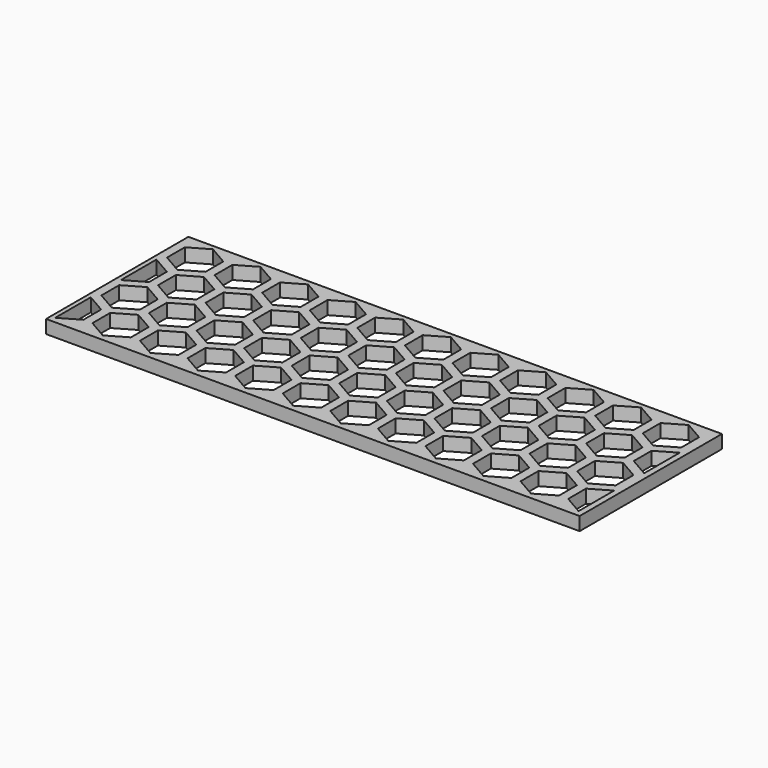
from build123d import *

# Parameters (mm, degrees)
F0_W     = 120
F0_H     = 40
F1_DEPTH = 3


with BuildPart() as f1:
    # F0 (on Top) → F1 (new body)
    with BuildSketch(Plane.XY):
        Rectangle(F0_W, F0_H)
        Polygon((-54.689746, -11.161731), (-54.689746, -16.161731), (-59.019873, -18.661731), (-59.019873, -8.661731), align=None, mode=Mode.SUBTRACT)
        Polygon((-48.319873, -8.661731), (-43.989746, -11.161731), (-43.989746, -16.161731), (-48.319873, -18.661731), (-52.65, -16.161731), (-52.65, -11.161731), align=None, mode=Mode.SUBTRACT)
        Polygon((-37.619873, -8.661731), (-33.289746, -11.161731), (-33.289746, -16.161731), (-37.619873, -18.661731), (-41.95, -16.161731), (-41.95, -11.161731), align=None, mode=Mode.SUBTRACT)
        Polygon((-26.919873, -8.661731), (-22.589746, -11.161731), (-22.589746, -16.161731), (-26.919873, -18.661731), (-31.25, -16.161731), (-31.25, -11.161731), align=None, mode=Mode.SUBTRACT)
        Polygon((-16.219873, -8.661731), (-11.889746, -11.161731), (-11.889746, -16.161731), (-16.219873, -18.661731), (-20.55, -16.161731), (-20.55, -11.161731), align=None, mode=Mode.SUBTRACT)
        Polygon((-5.519873, -8.661731), (-1.189746, -11.161731), (-1.189746, -16.161731), (-5.519873, -18.661731), (-9.85, -16.161731), (-9.85, -11.161731), align=None, mode=Mode.SUBTRACT)
        Polygon((-49.339746, -1.941154), (-49.339746, -6.941154), (-53.669873, -9.441154), (-58, -6.941154), (-58, -1.941154), (-53.669873, 0.558846), align=None, mode=Mode.SUBTRACT)
        Polygon((-42.969873, 0.558846), (-38.639746, -1.941154), (-38.639746, -6.941154), (-42.969873, -9.441154), (-47.3, -6.941154), (-47.3, -1.941154), align=None, mode=Mode.SUBTRACT)
        Polygon((-32.269873, 0.558846), (-27.939746, -1.941154), (-27.939746, -6.941154), (-32.269873, -9.441154), (-36.6, -6.941154), (-36.6, -1.941154), align=None, mode=Mode.SUBTRACT)
        Polygon((-21.569873, 0.558846), (-17.239746, -1.941154), (-17.239746, -6.941154), (-21.569873, -9.441154), (-25.9, -6.941154), (-25.9, -1.941154), align=None, mode=Mode.SUBTRACT)
        Polygon((-10.869873, 0.558846), (-6.539746, -1.941154), (-6.539746, -6.941154), (-10.869873, -9.441154), (-15.2, -6.941154), (-15.2, -1.941154), align=None, mode=Mode.SUBTRACT)
        Polygon((-0.169873, 0.558846), (4.160254, -1.941154), (4.160254, -6.941154), (-0.169873, -9.441154), (-4.5, -6.941154), (-4.5, -1.941154), align=None, mode=Mode.SUBTRACT)
        Polygon((5.180127, -8.661731), (9.510254, -11.161731), (9.510254, -16.161731), (5.180127, -18.661731), (0.85, -16.161731), (0.85, -11.161731), align=None, mode=Mode.SUBTRACT)
        Polygon((15.880127, -8.661731), (20.210254, -11.161731), (20.210254, -16.161731), (15.880127, -18.661731), (11.55, -16.161731), (11.55, -11.161731), align=None, mode=Mode.SUBTRACT)
        Polygon((26.580127, -8.661731), (30.910254, -11.161731), (30.910254, -16.161731), (26.580127, -18.661731), (22.25, -16.161731), (22.25, -11.161731), align=None, mode=Mode.SUBTRACT)
        Polygon((37.280127, -8.661731), (41.610254, -11.161731), (41.610254, -16.161731), (37.280127, -18.661731), (32.95, -16.161731), (32.95, -11.161731), align=None, mode=Mode.SUBTRACT)
        Polygon((47.980127, -8.661731), (52.310254, -11.161731), (52.310254, -16.161731), (47.980127, -18.661731), (43.65, -16.161731), (43.65, -11.161731), align=None, mode=Mode.SUBTRACT)
        Polygon((54.35, -16.161731), (54.35, -11.161731), (58.680127, -8.661731), (58.680127, -18.661731), align=None, mode=Mode.SUBTRACT)
        Polygon((10.530127, 0.558846), (14.860254, -1.941154), (14.860254, -6.941154), (10.530127, -9.441154), (6.2, -6.941154), (6.2, -1.941154), align=None, mode=Mode.SUBTRACT)
        Polygon((21.230127, 0.558846), (25.560254, -1.941154), (25.560254, -6.941154), (21.230127, -9.441154), (16.9, -6.941154), (16.9, -1.941154), align=None, mode=Mode.SUBTRACT)
        Polygon((31.930127, 0.558846), (36.260254, -1.941154), (36.260254, -6.941154), (31.930127, -9.441154), (27.6, -6.941154), (27.6, -1.941154), align=None, mode=Mode.SUBTRACT)
        Polygon((42.630127, 0.558846), (46.960254, -1.941154), (46.960254, -6.941154), (42.630127, -9.441154), (38.3, -6.941154), (38.3, -1.941154), align=None, mode=Mode.SUBTRACT)
        Polygon((53.330127, 0.558846), (57.660254, -1.941154), (57.660254, -6.941154), (53.330127, -9.441154), (49, -6.941154), (49, -1.941154), align=None, mode=Mode.SUBTRACT)
        Polygon((-54.65, 7.256476), (-54.65, 2.256476), (-58.980127, -0.243524), (-58.980127, 9.756476), align=None, mode=Mode.SUBTRACT)
        Polygon((-43.989746, 7.279423), (-43.989746, 2.279423), (-48.319873, -0.220577), (-52.65, 2.279423), (-52.65, 7.279423), (-48.319873, 9.779423), align=None, mode=Mode.SUBTRACT)
        Polygon((-37.619873, 9.779423), (-33.289746, 7.279423), (-33.289746, 2.279423), (-37.619873, -0.220577), (-41.95, 2.279423), (-41.95, 7.279423), align=None, mode=Mode.SUBTRACT)
        Polygon((-26.919873, 9.779423), (-22.589746, 7.279423), (-22.589746, 2.279423), (-26.919873, -0.220577), (-31.25, 2.279423), (-31.25, 7.279423), align=None, mode=Mode.SUBTRACT)
        Polygon((-16.219873, 9.779423), (-11.889746, 7.279423), (-11.889746, 2.279423), (-16.219873, -0.220577), (-20.55, 2.279423), (-20.55, 7.279423), align=None, mode=Mode.SUBTRACT)
        Polygon((-5.519873, 9.779423), (-1.189746, 7.279423), (-1.189746, 2.279423), (-5.519873, -0.220577), (-9.85, 2.279423), (-9.85, 7.279423), align=None, mode=Mode.SUBTRACT)
        Polygon((-49.339746, 16.5), (-49.339746, 11.5), (-53.669873, 9), (-58, 11.5), (-58, 16.5), (-53.669873, 19), align=None, mode=Mode.SUBTRACT)
        Polygon((-42.969873, 19), (-38.639746, 16.5), (-38.639746, 11.5), (-42.969873, 9), (-47.3, 11.5), (-47.3, 16.5), align=None, mode=Mode.SUBTRACT)
        Polygon((-32.269873, 19), (-27.939746, 16.5), (-27.939746, 11.5), (-32.269873, 9), (-36.6, 11.5), (-36.6, 16.5), align=None, mode=Mode.SUBTRACT)
        Polygon((-21.569873, 19), (-17.239746, 16.5), (-17.239746, 11.5), (-21.569873, 9), (-25.9, 11.5), (-25.9, 16.5), align=None, mode=Mode.SUBTRACT)
        Polygon((-10.869873, 19), (-6.539746, 16.5), (-6.539746, 11.5), (-10.869873, 9), (-15.2, 11.5), (-15.2, 16.5), align=None, mode=Mode.SUBTRACT)
        Polygon((-0.169873, 19), (4.160254, 16.5), (4.160254, 11.5), (-0.169873, 9), (-4.5, 11.5), (-4.5, 16.5), align=None, mode=Mode.SUBTRACT)
        Polygon((5.180127, 9.779423), (9.510254, 7.279423), (9.510254, 2.279423), (5.180127, -0.220577), (0.85, 2.279423), (0.85, 7.279423), align=None, mode=Mode.SUBTRACT)
        Polygon((15.880127, 9.779423), (20.210254, 7.279423), (20.210254, 2.279423), (15.880127, -0.220577), (11.55, 2.279423), (11.55, 7.279423), align=None, mode=Mode.SUBTRACT)
        Polygon((26.580127, 9.779423), (30.910254, 7.279423), (30.910254, 2.279423), (26.580127, -0.220577), (22.25, 2.279423), (22.25, 7.279423), align=None, mode=Mode.SUBTRACT)
        Polygon((37.280127, 9.779423), (41.610254, 7.279423), (41.610254, 2.279423), (37.280127, -0.220577), (32.95, 2.279423), (32.95, 7.279423), align=None, mode=Mode.SUBTRACT)
        Polygon((47.980127, 9.779423), (52.310254, 7.279423), (52.310254, 2.279423), (47.980127, -0.220577), (43.65, 2.279423), (43.65, 7.279423), align=None, mode=Mode.SUBTRACT)
        Polygon((54.35, 2.279423), (54.35, 7.279423), (58.680127, 9.779423), (58.680127, -0.220577), align=None, mode=Mode.SUBTRACT)
        Polygon((10.530127, 19), (14.860254, 16.5), (14.860254, 11.5), (10.530127, 9), (6.2, 11.5), (6.2, 16.5), align=None, mode=Mode.SUBTRACT)
        Polygon((21.230127, 19), (25.560254, 16.5), (25.560254, 11.5), (21.230127, 9), (16.9, 11.5), (16.9, 16.5), align=None, mode=Mode.SUBTRACT)
        Polygon((31.930127, 19), (36.260254, 16.5), (36.260254, 11.5), (31.930127, 9), (27.6, 11.5), (27.6, 16.5), align=None, mode=Mode.SUBTRACT)
        Polygon((42.630127, 19), (46.960254, 16.5), (46.960254, 11.5), (42.630127, 9), (38.3, 11.5), (38.3, 16.5), align=None, mode=Mode.SUBTRACT)
        Polygon((53.330127, 19), (57.660254, 16.5), (57.660254, 11.5), (53.330127, 9), (49, 11.5), (49, 16.5), align=None, mode=Mode.SUBTRACT)
    extrude(amount=F1_DEPTH)


solid = f1.part
